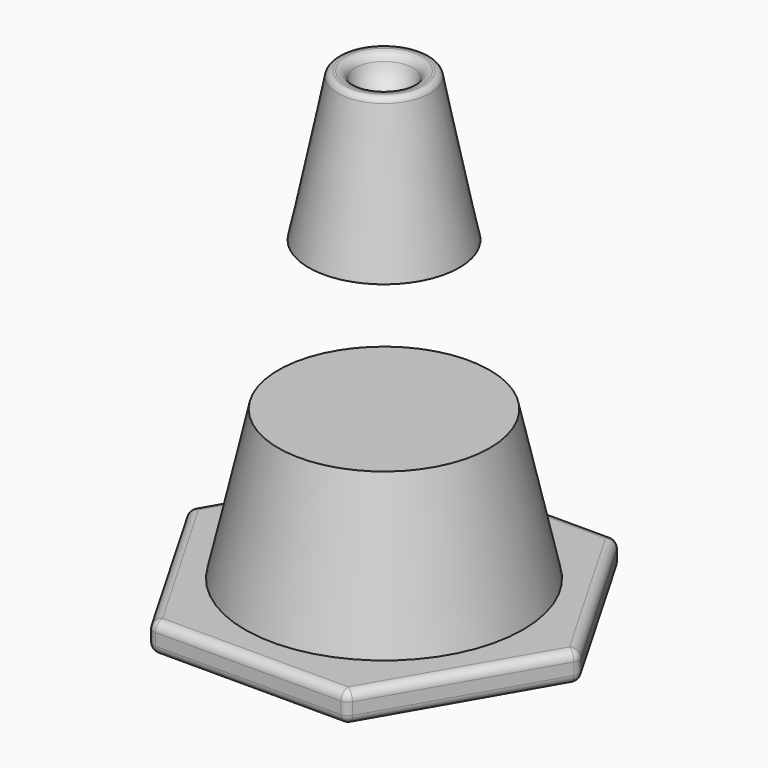
from build123d import *

# Parameters (mm, degrees)
PAD_DEPTH   = 20
FILLET001_R = 6
SKETCH001_R = 93.362404
SKETCH002_R = 70.9278
SKETCH007_R = 50.579408
SKETCH006_R = 30.277138
FILLET_R    = 4.2
FILLET002_R = 6.1


with BuildPart() as body:
    # Sketch → Pad (new body)
    with BuildSketch(Plane.XY):
        Polygon((131.507385, 0), (65.753693, 113.888736), (-65.753693, 113.888736), (-131.507385, 0), (-65.753693, -113.888736), (65.753693, -113.888736), align=None)
    extrude(amount=PAD_DEPTH)

    # Fillet001
    fillet001_edges = [body.edges().sort_by_distance(p)[0] for p in [
        (131.507385, 0, 10),
        (65.753693, 113.888736, 10),
        (98.630539, 56.944368, 0),
        (98.630539, 56.944368, 20),
        (-65.753693, 113.888736, 10),
        (0, 113.888736, 0),
        (0, 113.888736, 20),
        (-131.507385, 0, 10),
        (-98.630539, 56.944368, 0),
        (-98.630539, 56.944368, 20),
        (-65.753693, -113.888736, 10),
        (-98.630539, -56.944368, 0),
        (-98.630539, -56.944368, 20),
        (65.753693, -113.888736, 10),
        (0, -113.888736, 0),
        (0, -113.888736, 20),
        (98.630539, -56.944368, 0),
        (98.630539, -56.944368, 20),
    ]]
    fillet(fillet001_edges, radius=FILLET001_R)


with BuildPart() as loft_body:
    # Sketch001 (on Face8 of Pad) → Loft section 0
    with BuildSketch(Plane.XY.offset(20)):
        Circle(SKETCH001_R)
    # Sketch002 (on Face8 of Pad) → Loft section 1
    with BuildSketch(Plane.XY.offset(120)):
        Circle(SKETCH002_R)
    loft()


with BuildPart() as sphere:
    # Sphere → Sphere (revolve)
    with BuildSketch(Plane(origin=(0, 0, 320), x_dir=(1, 0, 0), z_dir=(0, -1, 0))):
        with BuildLine():
            ThreePointArc((0, -20), (20, 0), (0, 20))
            Line((0, 20), (0, -20))
        make_face()
    revolve(axis=Axis((0, 0, 320), (0, 0, 1)))


with BuildPart() as fillet002:
    # Sketch007 (on Face8 of Pad) → Loft002 section 0
    with BuildSketch(Plane.XY.offset(220)):
        Circle(SKETCH007_R)
    # Sketch006 (on Face8 of Pad) → Loft002 section 1
    with BuildSketch(Plane.XY.offset(320)):
        Circle(SKETCH006_R)
    loft()

    # Fillet
    fillet_edges = [fillet002.edges().sort_by_distance(p)[0] for p in [
        (-30.277138, 0, 320),
    ]]
    fillet(fillet_edges, radius=FILLET_R)

    # Cut: cut Sphere
    add(sphere.part, mode=Mode.SUBTRACT)

    # Fillet002
    fillet002_edges = [fillet002.edges().sort_by_distance(p)[0] for p in [
        (-20, 0, 320),
    ]]
    fillet(fillet002_edges, radius=FILLET002_R)


solid = Compound([body.part, loft_body.part, fillet002.part])
